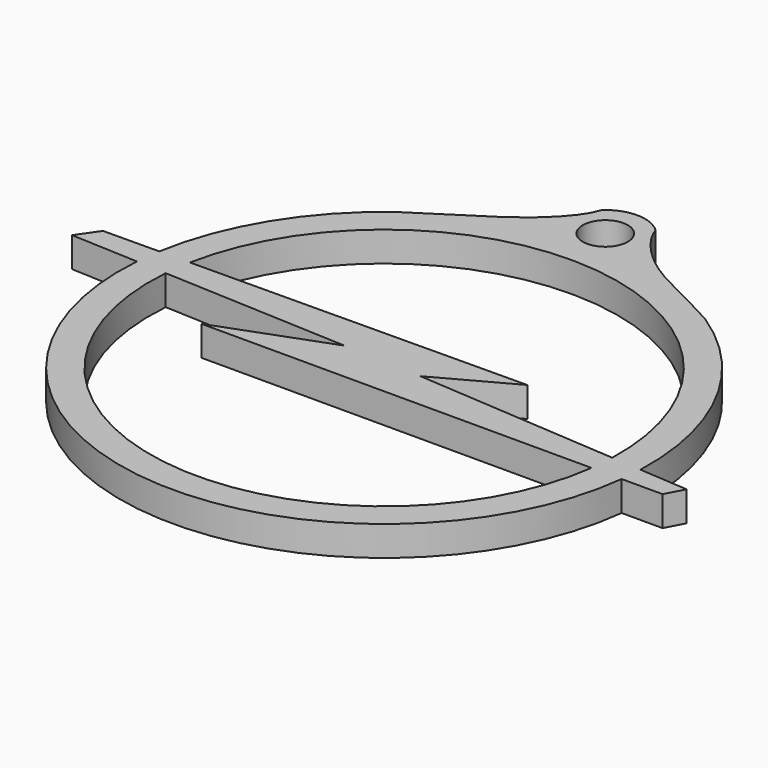
from build123d import *

# Parameters (mm, degrees)
F0_R     = 2.2576616117
F1_DEPTH = 3


with BuildPart() as f1:
    # F0 (on Top) → F1 (new body)
    with BuildSketch(Plane.XY):
        with BuildLine():
            Line((-37.6168382909, 10.099831016), (-39.0547698315, 8.0250099815))
            Line((-39.0547698315, 8.0250099815), (-32.3001294733, 7.7146596092))
            ThreePointArc((-32.3001294733, 7.7146596092), (-8.4689931024, -20.6256608953), (20.3557344343, 2.6172285434))
            Line((20.3557344343, 2.6172285434), (24.4486447446, 2.6172285434))
            Line((24.4486447446, 2.6172285434), (25.4272802401, 4.4346946262))
            Line((25.4272802401, 4.4346946262), (20.520402794, 4.7743959944))
            ThreePointArc((20.520402794, 4.7743959944), (17.5676678126, 17.8854557009), (8.5541479835, 27.8541562575))
            add(Edge.make_bspline(
                [(-3.9237352194, 37.2259461852), (-3.3993307991, 35.6037251818), (0.1423992503, 31.5914985093), (5.0264903455, 29.8585310839), (8.5541479835, 27.8541562575)],
                knots=[0, 0, 0, 0, 0.4427486795, 1, 1, 1, 1], degree=3))
            ThreePointArc((-3.9237352194, 37.2259461852), (-6.6391834989, 38.2974900612), (-9.3546317784, 37.2259461852))
            add(Edge.make_bspline(
                [(-21.7365005318, 26.9159208339), (-18.2670087014, 29.2554629144), (-13.524201323, 31.7420694385), (-9.8482329315, 35.6360561483), (-9.3546317784, 37.2259461852)],
                knots=[0, 0, 0, 0, 0.5624244843, 1, 1, 1, 1], degree=3))
            ThreePointArc((-21.7365005318, 26.9159208339), (-28.4845461397, 19.5202253849), (-32.0013352888, 10.1466121657))
            Line((-32.0013352888, 10.1466121657), (-37.6168382909, 10.099831016))
        make_face()
        with BuildLine():
            ThreePointArc((17.334249449, 2.6172285434), (-8.4004646093, -17.6190863582), (-29.3036249968, 7.5769814753))
            Line((-29.3036249968, 7.5769814753), (-10.7002714649, 6.7222272046))
            Line((-10.7002714649, 6.7222272046), (-21.7461695187, 2.6172285434))
            Line((-21.7461695187, 2.6172285434), (17.334249449, 2.6172285434))
        make_face(mode=Mode.SUBTRACT)
        with BuildLine():
            Line((17.5274881467, 4.9815944036), (-2.8267337475, 6.3907098956))
            Line((-2.8267337475, 6.3907098956), (4.632406868, 10.4517973959))
            Line((4.632406868, 10.4517973959), (-28.949519892, 10.1720359671))
            ThreePointArc((-28.949519892, 10.1720359671), (-3.3161372104, 29.0213866102), (17.5274881467, 4.9815944036))
        make_face(mode=Mode.SUBTRACT)
        with Locations((-6.6391834989, 34.3210473657)):
            Circle(F0_R, mode=Mode.SUBTRACT)
    extrude(amount=F1_DEPTH)


solid = f1.part
